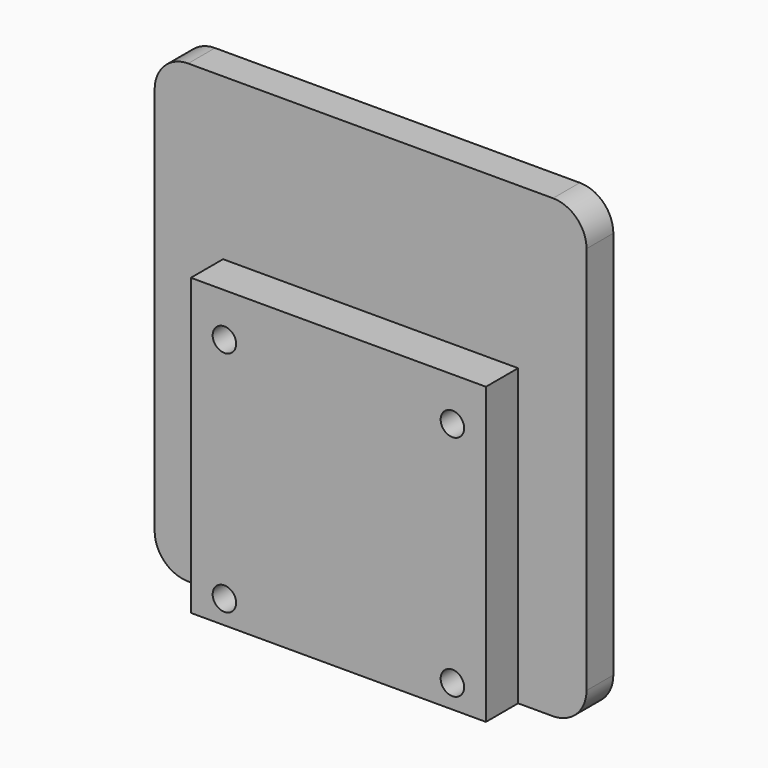
from build123d import *

# Parameters (mm, degrees)
F1_DEPTH = 5
F2_W     = 22
F2_H     = 44
F2_R     = 1.75
F3_DEPTH = 6


with BuildPart() as f1:
    # F0 (on Front) → F1 (new body)
    with BuildSketch(Plane.XZ):
        with BuildLine():
            Line((27.2, 34), (-27.2, 34))
            ThreePointArc((-27.2, 34), (-30.735534, 32.535534), (-32.2, 29))
            Line((-32.2, 29), (-32.2, -29))
            ThreePointArc((-32.2, -29), (-30.735534, -32.535534), (-27.2, -34))
            Line((-27.2, -34), (27.2, -34))
            ThreePointArc((27.2, -34), (30.735534, -32.535534), (32.2, -29))
            Line((32.2, -29), (32.2, 29))
            ThreePointArc((32.2, 29), (30.735534, 32.535534), (27.2, 34))
        make_face()
    extrude(amount=-F1_DEPTH)

    # F2 (on face) → F3 (join)
    with BuildSketch(Plane.XZ):
        with Locations((-11, -12)):
            Rectangle(F2_W, F2_H)
        with Locations((-17, -30.5)):
            Circle(F2_R, mode=Mode.SUBTRACT)
        with Locations((-17, 3.5)):
            Circle(F2_R, mode=Mode.SUBTRACT)
        with Locations((11, -12)):
            Rectangle(F2_W, F2_H)
        with Locations((17, -30.5)):
            Circle(F2_R, mode=Mode.SUBTRACT)
        with Locations((17, 3.5)):
            Circle(F2_R, mode=Mode.SUBTRACT)
    extrude(amount=F3_DEPTH)


solid = f1.part
